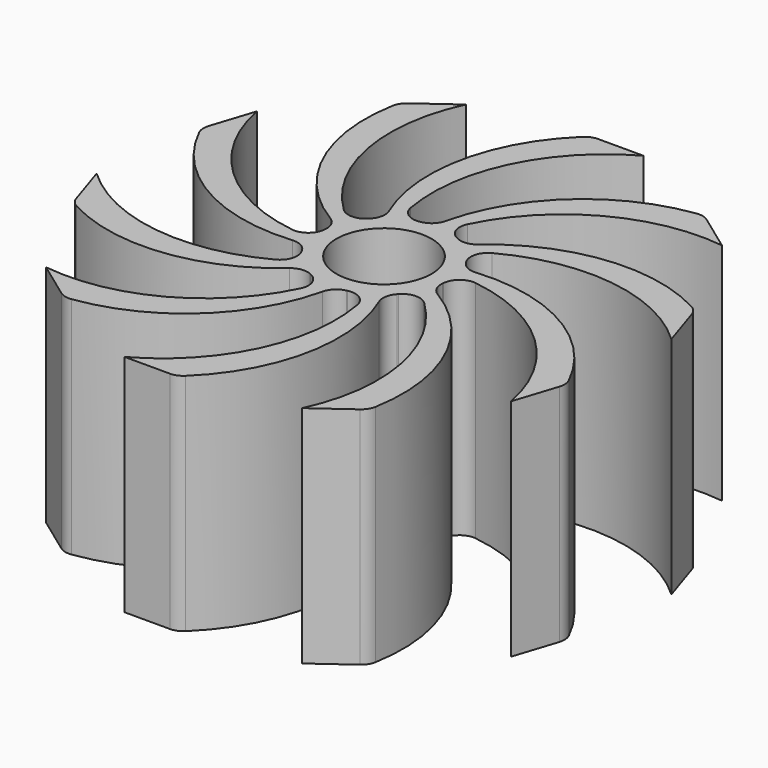
from build123d import *

# Parameters (mm, degrees)
F1_DEPTH = 33.02
F2_R     = 2.54
F3_R     = 6.985
F4_DEPTH = 33.0210001


with BuildPart() as f1:
    # F0 (on Top) → F1 (new body)
    with BuildSketch(Plane.XY):
        with BuildLine():
            ThreePointArc((9.1460296149, -2.6600314441), (9.4297814684, -1.343445741), (9.525, 0))
            ThreePointArc((9.525, 0), (9.4903516705, 0.8116958606), (9.3866587569, 1.6174864392))
            ThreePointArc((9.3866587569, 1.6174864392), (4.6168313401, 1.2526795423), (0, 0))
            ThreePointArc((0, 0), (4.6988193784, -0.8974598084), (9.1460296149, -2.6600314441))
        make_face()
        with BuildLine():
            ThreePointArc((0, 0), (4.6168313401, 1.2526795423), (9.3866587569, 1.6174864392))
            ThreePointArc((9.3866587569, 1.6174864392), (9.2098307372, 2.4299470758), (8.962820643, 3.2238906808))
            ThreePointArc((8.962820643, 3.2238906808), (4.3289383705, 2.0358364971), (0, 0))
        make_face()
        with BuildLine():
            ThreePointArc((8.962820643, 3.2238906808), (9.2098307372, 2.4299470758), (9.3866587569, 1.6174864392))
            ThreePointArc((9.3866587569, 1.6174864392), (25.2965836493, -4.3542207579), (33.8805437737, -19.0205981399))
            Line((33.8805437737, -19.0205981399), (36.2352532708, -11.7735474857))
            ThreePointArc((36.2352532708, -11.7735474857), (25.1652128083, 0.3916924555), (8.962820643, 3.2238906808))
        make_face()
        with BuildLine():
            ThreePointArc((22.3946181123, -30.8235474857), (20.5893158777, -14.4748551065), (9.1460296149, -2.6600314441))
            ThreePointArc((9.1460296149, -2.6600314441), (8.8791966368, -3.4475342037), (8.5447011295, -4.2087655682))
            ThreePointArc((8.5447011295, -4.2087655682), (17.9060193252, -18.3915973928), (16.2299086152, -35.3024711082))
            Line((16.2299086152, -35.3024711082), (22.3946181123, -30.8235474857))
        make_face()
        with BuildLine():
            ThreePointArc((8.5447011295, -4.2087655682), (8.8791966368, -3.4475342037), (9.1460296149, -2.6600314441))
            ThreePointArc((9.1460296149, -2.6600314441), (4.6988193784, -0.8974598084), (0, 0))
            ThreePointArc((0, 0), (4.4714015751, -1.7002663358), (8.5447011295, -4.2087655682))
        make_face()
        with BuildLine():
            ThreePointArc((0, 0), (4.3289383705, 2.0358364971), (8.962820643, 3.2238906808))
            ThreePointArc((8.962820643, 3.2238906808), (8.0081745948, 5.1570112138), (6.64323178, 6.8259136031))
            ThreePointArc((6.64323178, 6.8259136031), (2.9987884535, 3.7271444123), (0, 0))
        make_face()
        with BuildLine():
            ThreePointArc((-8.5447011295, 4.2087655682), (-4.4714015751, 1.7002663358), (0, 0))
            ThreePointArc((0, 0), (-3.2739110907, 3.4879569706), (-5.835766136, 7.5279119685))
            ThreePointArc((-5.835766136, 7.5279119685), (-7.3792711632, 6.0226225267), (-8.5447011295, 4.2087655682))
        make_face()
        with BuildLine():
            ThreePointArc((-5.835766136, 7.5279119685), (-3.2739110907, 3.4879569706), (0, 0))
            ThreePointArc((0, 0), (-2.6180483858, 4.0037682635), (-4.4389580943, 8.4274121791))
            ThreePointArc((-4.4389580943, 8.4274121791), (-5.1570112138, 8.0081745948), (-5.835766136, 7.5279119685))
        make_face()
        with BuildLine():
            ThreePointArc((-9.1460296149, 2.6600314441), (-4.6988193784, 0.8974598084), (0, 0))
            ThreePointArc((0, 0), (-4.4714015751, 1.7002663358), (-8.5447011295, 4.2087655682))
            ThreePointArc((-8.5447011295, 4.2087655682), (-8.8791966368, 3.4475342037), (-9.1460296149, 2.6600314441))
        make_face()
        with BuildLine():
            ThreePointArc((-9.3866587569, -1.6174864392), (-4.6168313401, -1.2526795423), (0, 0))
            ThreePointArc((0, 0), (-4.6988193784, 0.8974598084), (-9.1460296149, 2.6600314441))
            ThreePointArc((-9.1460296149, 2.6600314441), (-9.5099644785, 0.5349772124), (-9.3866587569, -1.6174864392))
        make_face()
        with BuildLine():
            ThreePointArc((-8.962820643, -3.2238906808), (-4.3289383705, -2.0358364971), (0, 0))
            ThreePointArc((0, 0), (-4.6168313401, -1.2526795423), (-9.3866587569, -1.6174864392))
            ThreePointArc((-9.3866587569, -1.6174864392), (-9.2098307372, -2.4299470758), (-8.962820643, -3.2238906808))
        make_face()
        with BuildLine():
            ThreePointArc((-6.64323178, -6.8259136031), (-2.9987884535, -3.7271444123), (0, 0))
            ThreePointArc((0, 0), (-4.3289383705, -2.0358364971), (-8.962820643, -3.2238906808))
            ThreePointArc((-8.962820643, -3.2238906808), (-8.0081745948, -5.1570112138), (-6.64323178, -6.8259136031))
        make_face()
        with BuildLine():
            ThreePointArc((-5.3561188205, -7.8763961417), (-2.3055500403, -4.1915124562), (0, 0))
            ThreePointArc((0, 0), (-2.9987884535, -3.7271444123), (-6.64323178, -6.8259136031))
            ThreePointArc((-6.64323178, -6.8259136031), (-6.0226225267, -7.3792711632), (-5.3561188205, -7.8763961417))
        make_face()
        with BuildLine():
            ThreePointArc((-1.3623160583, -9.4270737749), (-0.2353103027, -4.7779667977), (0, 0))
            ThreePointArc((0, 0), (-2.3055500403, -4.1915124562), (-5.3561188205, -7.8763961417))
            ThreePointArc((-5.3561188205, -7.8763961417), (-3.4475342037, -8.8791966368), (-1.3623160583, -9.4270737749))
        make_face()
        with BuildLine():
            ThreePointArc((0.2964383436, -9.5203859853), (0.5984800426, -4.7461731213), (0, 0))
            ThreePointArc((0, 0), (-0.2353103027, -4.7779667977), (-1.3623160583, -9.4270737749))
            ThreePointArc((-1.3623160583, -9.4270737749), (-0.5349772124, -9.5099644785), (0.2964383436, -9.5203859853))
        make_face()
        with BuildLine():
            ThreePointArc((4.4389580943, -8.4274121791), (2.6180483858, -4.0037682635), (0, 0))
            ThreePointArc((0, 0), (0.5984800426, -4.7461731213), (0.2964383436, -9.5203859853))
            ThreePointArc((0.2964383436, -9.5203859853), (2.4299470758, -9.2098307372), (4.4389580943, -8.4274121791))
        make_face()
        with BuildLine():
            ThreePointArc((5.835766136, -7.5279119685), (3.2739110907, -3.4879569706), (0, 0))
            ThreePointArc((0, 0), (2.6180483858, -4.0037682635), (4.4389580943, -8.4274121791))
            ThreePointArc((4.4389580943, -8.4274121791), (5.1570112138, -8.0081745948), (5.835766136, -7.5279119685))
        make_face()
        with BuildLine():
            ThreePointArc((8.5447011295, -4.2087655682), (4.4714015751, -1.7002663358), (0, 0))
            ThreePointArc((0, 0), (3.2739110907, -3.4879569706), (5.835766136, -7.5279119685))
            ThreePointArc((5.835766136, -7.5279119685), (7.3792711632, -6.0226225267), (8.5447011295, -4.2087655682))
        make_face()
        with BuildLine():
            ThreePointArc((5.3561188205, 7.8763961417), (2.3055500403, 4.1915124562), (0, 0))
            ThreePointArc((0, 0), (2.9987884535, 3.7271444123), (6.64323178, 6.8259136031))
            ThreePointArc((6.64323178, 6.8259136031), (6.0226225267, 7.3792711632), (5.3561188205, 7.8763961417))
        make_face()
        with BuildLine():
            ThreePointArc((1.3623160583, 9.4270737749), (0.2353103027, 4.7779667977), (0, 0))
            ThreePointArc((0, 0), (2.3055500403, 4.1915124562), (5.3561188205, 7.8763961417))
            ThreePointArc((5.3561188205, 7.8763961417), (3.4475342037, 8.8791966368), (1.3623160583, 9.4270737749))
        make_face()
        with BuildLine():
            ThreePointArc((-0.2964383436, 9.5203859853), (-0.5984800426, 4.7461731213), (0, 0))
            ThreePointArc((0, 0), (0.2353103027, 4.7779667977), (1.3623160583, 9.4270737749))
            ThreePointArc((1.3623160583, 9.4270737749), (0.5349772124, 9.5099644785), (-0.2964383436, 9.5203859853))
        make_face()
        with BuildLine():
            ThreePointArc((-4.4389580943, 8.4274121791), (-2.6180483858, 4.0037682635), (0, 0))
            ThreePointArc((0, 0), (-0.5984800426, 4.7461731213), (-0.2964383436, 9.5203859853))
            ThreePointArc((-0.2964383436, 9.5203859853), (-2.4299470758, 9.2098307372), (-4.4389580943, 8.4274121791))
        make_face()
        with BuildLine():
            ThreePointArc((5.3561188205, 7.8763961417), (6.0226225267, 7.3792711632), (6.64323178, 6.8259136031))
            ThreePointArc((6.64323178, 6.8259136031), (23.0247128186, 11.346320212), (38.589962768, 4.5264968315))
            Line((38.589962768, 4.5264968315), (36.2352532708, 11.7735474857))
            ThreePointArc((36.2352532708, 11.7735474857), (20.1288537802, 15.1086268126), (5.3561188205, 7.8763961417))
        make_face()
        with BuildLine():
            ThreePointArc((0, 38.1), (-8.149000087, 23.8125), (-5.835766136, 7.5279119685))
            ThreePointArc((-5.835766136, 7.5279119685), (-5.1570112138, 8.0081745948), (-4.4389580943, 8.4274121791))
            ThreePointArc((-4.4389580943, 8.4274121791), (-3.6759642221, 25.4040089311), (7.62, 38.1))
            Line((7.62, 38.1), (0, 38.1))
        make_face()
        with BuildLine():
            ThreePointArc((-9.1460296149, 2.6600314441), (-8.8791966368, 3.4475342037), (-8.5447011295, 4.2087655682))
            ThreePointArc((-8.5447011295, 4.2087655682), (-17.9060193252, 18.3915973928), (-16.2299086152, 35.3024711082))
            Line((-16.2299086152, 35.3024711082), (-22.3946181123, 30.8235474857))
            ThreePointArc((-22.3946181123, 30.8235474857), (-20.5893158777, 14.4748551065), (-9.1460296149, 2.6600314441))
        make_face()
        with BuildLine():
            ThreePointArc((-8.962820643, -3.2238906808), (-9.2098307372, -2.4299470758), (-9.3866587569, -1.6174864392))
            ThreePointArc((-9.3866587569, -1.6174864392), (-25.2965836493, 4.3542207579), (-33.8805437737, 19.0205981399))
            Line((-33.8805437737, 19.0205981399), (-36.2352532708, 11.7735474857))
            ThreePointArc((-36.2352532708, 11.7735474857), (-25.1652128083, -0.3916924555), (-8.962820643, -3.2238906808))
        make_face()
        with BuildLine():
            ThreePointArc((-5.3561188205, -7.8763961417), (-6.0226225267, -7.3792711632), (-6.64323178, -6.8259136031))
            ThreePointArc((-6.64323178, -6.8259136031), (-23.0247128186, -11.346320212), (-38.589962768, -4.5264968315))
            Line((-38.589962768, -4.5264968315), (-36.2352532708, -11.7735474857))
            ThreePointArc((-36.2352532708, -11.7735474857), (-20.1288537802, -15.1086268126), (-5.3561188205, -7.8763961417))
        make_face()
        with BuildLine():
            ThreePointArc((0.2964383436, -9.5203859853), (-0.5349772124, -9.5099644785), (-1.3623160583, -9.4270737749))
            ThreePointArc((-1.3623160583, -9.4270737749), (-11.9581842724, -22.7129525082), (-28.5593276095, -26.3446238632))
            Line((-28.5593276095, -26.3446238632), (-22.3946181123, -30.8235474857))
            ThreePointArc((-22.3946181123, -30.8235474857), (-7.4039567627, -24.0545792506), (0.2964383436, -9.5203859853))
        make_face()
        with BuildLine():
            ThreePointArc((5.835766136, -7.5279119685), (5.1570112138, -8.0081745948), (4.4389580943, -8.4274121791))
            ThreePointArc((4.4389580943, -8.4274121791), (3.6759642221, -25.4040089311), (-7.62, -38.1))
            Line((-7.62, -38.1), (0, -38.1))
            ThreePointArc((0, -38.1), (8.149000087, -23.8125), (5.835766136, -7.5279119685))
        make_face()
        with BuildLine():
            ThreePointArc((-0.2964383436, 9.5203859853), (0.5349772124, 9.5099644785), (1.3623160583, 9.4270737749))
            ThreePointArc((1.3623160583, 9.4270737749), (11.9581842724, 22.7129525082), (28.5593276095, 26.3446238632))
            Line((28.5593276095, 26.3446238632), (22.3946181123, 30.8235474857))
            ThreePointArc((22.3946181123, 30.8235474857), (7.4039567627, 24.0545792506), (-0.2964383436, 9.5203859853))
        make_face()
    extrude(amount=F1_DEPTH)

    # F2
    f2_edges = [f1.edges().sort_by_distance(p)[0] for p in [
        (-22.394618, 30.823547, 16.51),
        (0, 38.1, 16.51),
        (-36.235253, 11.773547, 16.51),
        (-36.235253, -11.773547, 16.51),
        (-22.394618, -30.823547, 16.51),
        (0, -38.1, 16.51),
        (22.394618, -30.823547, 16.51),
        (36.235253, -11.773547, 16.51),
        (36.235253, 11.773547, 16.51),
        (22.394618, 30.823547, 16.51),
        (-4.438958, 8.427412, 16.51),
        (-5.835766, 7.527912, 16.51),
        (-8.544701, 4.208766, 16.51),
        (-9.14603, 2.660031, 16.51),
        (-9.386659, -1.617486, 16.51),
        (-8.962821, -3.223891, 16.51),
        (-6.643232, -6.825914, 16.51),
        (-5.356119, -7.876396, 16.51),
        (-1.362316, -9.427074, 16.51),
        (0.296438, -9.520386, 16.51),
        (4.438958, -8.427412, 16.51),
        (5.835766, -7.527912, 16.51),
        (8.544701, -4.208766, 16.51),
        (9.14603, -2.660031, 16.51),
        (9.386659, 1.617486, 16.51),
        (8.962821, 3.223891, 16.51),
        (6.643232, 6.825914, 16.51),
        (5.356119, 7.876396, 16.51),
        (1.362316, 9.427074, 16.51),
        (-0.296438, 9.520386, 16.51),
    ]]
    fillet(f2_edges, radius=F2_R)

    # F3 (on Top) → F4 (cut, through all)
    with BuildSketch(Plane.XY):
        Circle(F3_R)
    extrude(amount=F4_DEPTH, mode=Mode.SUBTRACT)


solid = f1.part
